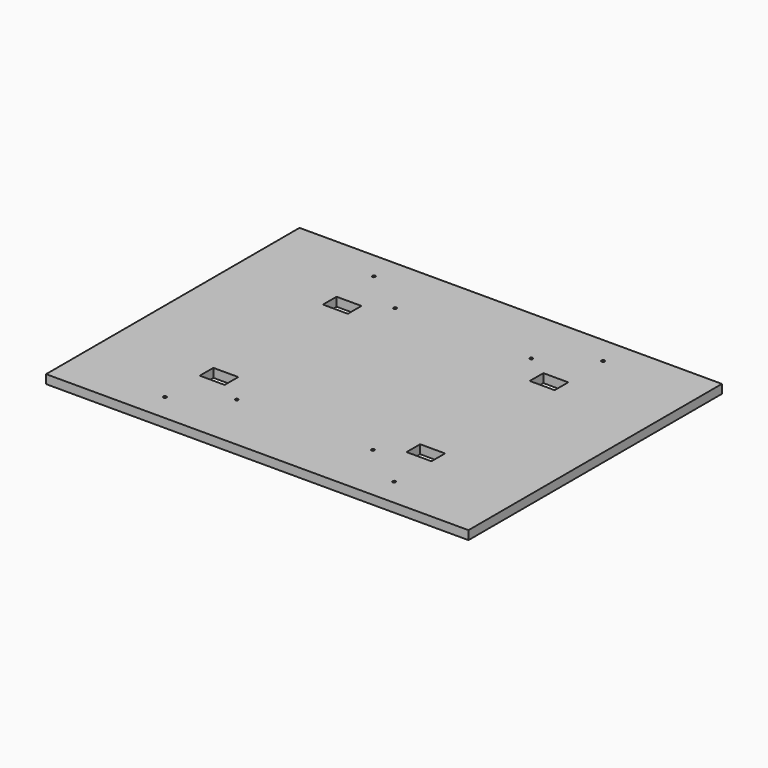
from build123d import *

# Parameters (mm, degrees)
F0_W     = 609.6
F0_H     = 457.2
F0_R     = 2.2479
F0_W_2   = 35.94001
F0_H_2   = 24.519992
F1_DEPTH = 12.7


with BuildPart() as f1:
    # F0 (on Top) → F1 (new body)
    with BuildSketch(Plane.XY):
        Rectangle(F0_W, F0_H)
        with Locations((-165.375006, -188.559999)):
            Circle(F0_R, mode=Mode.SUBTRACT)
        with Locations((-98.274988, -142.859989)):
            Circle(F0_R, mode=Mode.SUBTRACT)
        with Locations((-149.225, -111.125)):
            Rectangle(F0_W_2, F0_H_2, mode=Mode.SUBTRACT)
        with Locations((98.274988, -142.859989)):
            Circle(F0_R, mode=Mode.SUBTRACT)
        with Locations((165.375006, -188.559999)):
            Circle(F0_R, mode=Mode.SUBTRACT)
        with Locations((149.225, -111.125)):
            Rectangle(F0_W_2, F0_H_2, mode=Mode.SUBTRACT)
        with Locations((-149.225, 111.125)):
            Rectangle(F0_W_2, F0_H_2, mode=Mode.SUBTRACT)
        with Locations((-165.375006, 188.559999)):
            Circle(F0_R, mode=Mode.SUBTRACT)
        with Locations((-98.274988, 142.859989)):
            Circle(F0_R, mode=Mode.SUBTRACT)
        with Locations((149.225, 111.125)):
            Rectangle(F0_W_2, F0_H_2, mode=Mode.SUBTRACT)
        with Locations((98.274988, 142.859989)):
            Circle(F0_R, mode=Mode.SUBTRACT)
        with Locations((165.375006, 188.559999)):
            Circle(F0_R, mode=Mode.SUBTRACT)
    extrude(amount=F1_DEPTH)


solid = f1.part
